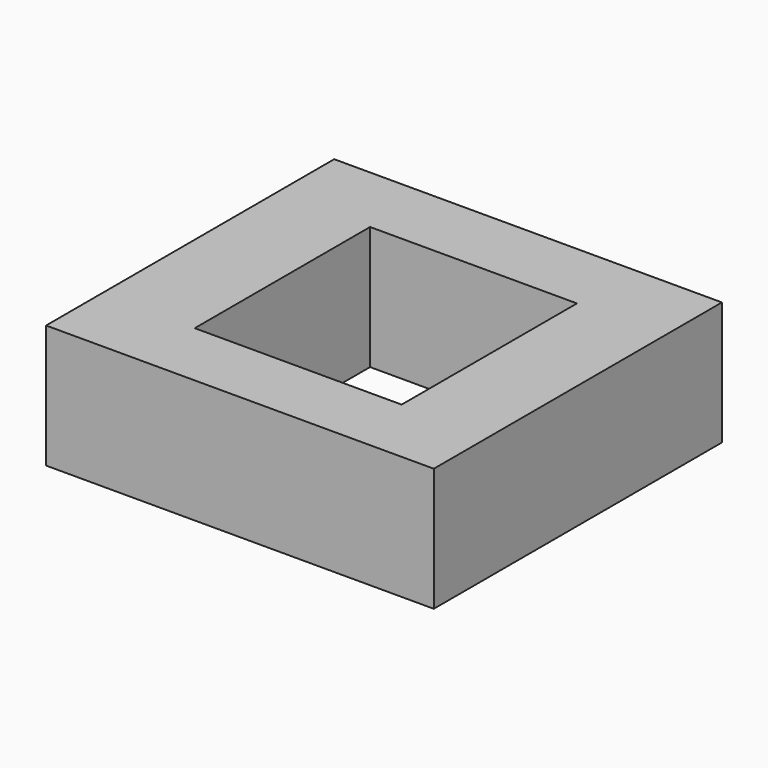
from build123d import *

# Parameters (mm, degrees)
F1_DEPTH = 25


with BuildPart() as f1:
    # F0 (on Top) → F1 (new body)
    with BuildSketch(Plane.XY):
        Polygon((36.812134, 35.103552), (-38.986687, 35.103552), (-41.782547, 35.103552), (-22.832843, 20.502958), (19.105028, 20.502958), align=None)
        Polygon((36.812134, -37.899408), (36.812134, 35.103552), (19.105028, 20.502958), (19.105028, -23.920119), align=None)
        Polygon((-22.832843, 20.502958), (-41.782547, 35.103552), (-41.782547, -37.899408), (-22.832843, -23.920119), align=None)
        Polygon((-41.782547, -37.899408), (36.812134, -37.899408), (19.105028, -23.920119), (-22.832843, -23.920119), align=None)
    extrude(amount=F1_DEPTH)


solid = f1.part
